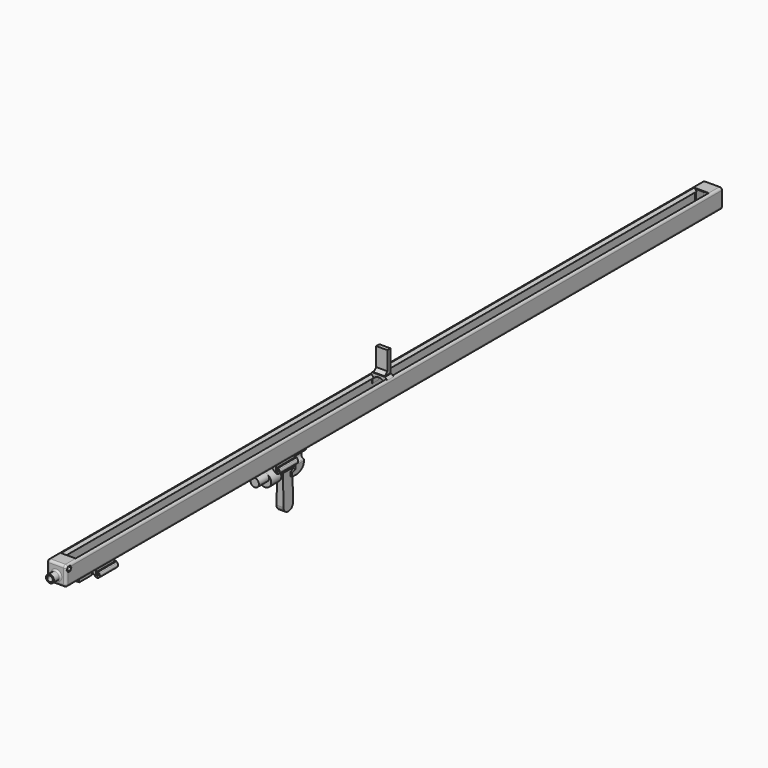
from build123d import *

# Parameters (mm, degrees)
PAD_DEPTH            = 10
CHAMFER_SIZE         = 3
SKETCH018_W          = 14.07752
SKETCH018_H          = 28.079826
PAD009_DEPTH         = 5
CHAMFER001_SIZE      = 4
PAD017_DEPTH         = 340
SKETCH028_W          = 255.75
SKETCH028_H          = 55.145052
SKETCH028_W_2        = 65.422654
SKETCH028_H_2        = 54.277497
POCKET004_DEPTH      = 13
PAD020_DEPTH         = 7.5
POCKET009_DEPTH      = 10
SKETCH032_W          = 18
SKETCH032_H          = 5
PAD021_DEPTH         = 20
SKETCH026_R          = 2.2
POCKET005_DEPTH      = 0.001
POCKET005_DEPTH_BACK = 495.001
SKETCH040_R          = 4.638047
POCKET010_DEPTH      = 20
FILLET003_R          = 1
FILLET004_R          = 9
PAD008_DEPTH         = 501
SKETCH019_R          = 2.2
PAD010_DEPTH         = 495
SKETCH020_W          = 13.9
SKETCH020_H          = 18.2
PAD011_DEPTH         = 15
PAD012_DEPTH         = 4
SKETCH022_R          = 4.5
POCKET_DEPTH         = 15
FILLET_R             = 3
SKETCH023_R          = 5
PAD016_DEPTH         = 10
SKETCH024_R          = 3.5
POCKET003_DEPTH      = 17
FILLET001_R          = 2
SKETCH033_R          = 4
PAD022_DEPTH         = 9.5
SKETCH034_R          = 1.6
POCKET006_DEPTH      = 12.201
POCKET006_DEPTH_BACK = 12.201
SKETCH035_R          = 3.05
POCKET007_DEPTH      = 7
POCKET008_DEPTH      = 7
CHAMFER003_SIZE      = 1.3
SKETCH029_R          = 8
PAD018_DEPTH         = 16
SKETCH030_R          = 5.25
PAD019_DEPTH         = 16
SKETCH037_R          = 5.55
PAD023_DEPTH         = 23
PAD024_DEPTH         = 15
FILLET002_R          = 7


with BuildPart() as stripplacer:
    # Sketch017 → Pad (new body)
    with BuildSketch(Plane.XZ):
        with BuildLine():
            ThreePointArc((6.682066, -3.2), (0, 0.3), (-6.682066, -3.2))
            Line((-6.682066, -3.2), (-8.05, -3.2))
            Line((-8.05, -3.2), (-8.05, -9.2))
            Line((-8.05, -9.2), (-11.05, -9.2))
            Line((-11.05, -9.2), (-11.05, 3.3))
            Line((-11.05, 3.3), (11.05, 3.3))
            Line((11.05, 3.3), (11.05, -9.2))
            Line((11.05, -9.2), (8.05, -9.2))
            Line((8.05, -9.2), (8.05, -3.2))
            Line((6.682066, -3.2), (8.05, -3.2))
        make_face()
    extrude(amount=PAD_DEPTH)

    # Chamfer
    chamfer_edges = [stripplacer.edges().sort_by_distance(p)[0] for p in [
        (11.05, -5, 3.3),
        (-11.05, -5, 3.3),
    ]]
    chamfer(chamfer_edges, length=CHAMFER_SIZE)

    # Sketch018 → Pad009 (join)
    with BuildSketch(Plane.XZ):
        with Locations((0, 16.761206)):
            Rectangle(SKETCH018_W, SKETCH018_H)
    extrude(amount=PAD009_DEPTH)

    # Chamfer001
    chamfer001_edges = [stripplacer.edges().sort_by_distance(p)[0] for p in [
        (0, -5, 3.3),
    ]]
    chamfer(chamfer001_edges, length=CHAMFER001_SIZE)


with BuildPart() as scratch:
    # Sketch027 → Pad017 (new body)
    with BuildSketch(Plane.XZ.offset(150.85)):
        with BuildLine():
            Line((0, -30), (4.242641, -34.242641))
            Line((4.242641, -34.242641), (5.432671, -35.155783))
            ThreePointArc((5.432671, -35.155783), (9.99478, -34.771029), (10.037752, -30.192925))
            Line((8.8, -28.807746), (10.037752, -30.192925))
            Line((7.6, -28.807746), (8.8, -28.807746))
            Line((7.6, -31.262555), (7.6, -28.807746))
            ThreePointArc((6.3, -32.458381), (8.312404, -33.341558), (7.6, -31.262555))
            Line((6.3, -32.458381), (6.3, -26.458381))
            Line((6.3, -26.458381), (9, -23.2))
            Line((9, -23.2), (-9, -23.2))
            Line((-6.3, -26.458381), (-9, -23.2))
            Line((-6.250043, -32.447956), (-6.3, -26.458381))
            ThreePointArc((-7.859996, -31.261342), (-8.241634, -33.464602), (-6.250043, -32.447956))
            Line((-7.859996, -31.261342), (-8.147993, -30.303711))
            Line((-8.147993, -30.303711), (-9.39462, -29.63354))
            ThreePointArc((-9.39462, -29.63354), (-10.265009, -34.440381), (-5.432671, -35.155783))
            Line((-5.432671, -35.155783), (-4.242641, -34.242641))
            Line((0, -30), (-4.242641, -34.242641))
        make_face()
    extrude(amount=PAD017_DEPTH)

    # Sketch028 → Pocket004 (cut, symmetric)
    with BuildSketch(Plane.YZ):
        with Locations((-307.985, -51.022526)):
            Rectangle(SKETCH028_W, SKETCH028_H)
        with Locations((-497.571327, -50.588749)):
            Rectangle(SKETCH028_W_2, SKETCH028_H_2)
    extrude(amount=POCKET004_DEPTH, both=True, mode=Mode.SUBTRACT)

    # Sketch031 → Pad020 (join, symmetric)
    with BuildSketch(Plane.YZ):
        Polygon((-156.253647, -44.266901), (-150.85, -42.402939), (-150.85, -23.2), (-133.706074, -23.2), (-138.925842, -45.648563), (-147.958359, -48.869244), (-156.253647, -48.869244), align=None)
    extrude(amount=PAD020_DEPTH, both=True)

    # Sketch039 → Pocket009 (cut)
    with BuildSketch(Plane.XY.offset(-41)):
        Polygon((4.65, -150.85), (-4.65, -150.85), (-5.297581, -156.296677), (5.297581, -156.296677), align=None)
    extrude(amount=-POCKET009_DEPTH, mode=Mode.SUBTRACT)

    # Sketch032 → Pad021 (join)
    with BuildSketch(Plane.XZ.offset(475)):
        with Locations((0, -25.7)):
            Rectangle(SKETCH032_W, SKETCH032_H)
    extrude(amount=PAD021_DEPTH)

    # Sketch026 → Pocket005 (cut, two sides)
    with BuildSketch(Plane.XZ) as pocket005_sk:
        with Locations((0, -26.65)):
            Circle(SKETCH026_R)
    extrude(amount=-POCKET005_DEPTH, mode=Mode.SUBTRACT)
    extrude(pocket005_sk.sketch, amount=POCKET005_DEPTH_BACK, mode=Mode.SUBTRACT)

    # Sketch040 (on Face39 of Pocket009) → Pocket010 (cut)
    with BuildSketch(Plane(origin=(0, -150.85, 0), x_dir=(1, 0, 0), z_dir=(0, 1, 0))):
        with Locations((-7.50246, 32.458381)):
            Circle(SKETCH040_R)
        with Locations((7.50246, 32.458381)):
            Circle(SKETCH040_R)
    extrude(amount=POCKET010_DEPTH, mode=Mode.SUBTRACT)

    # Fillet003
    fillet003_edges = [scratch.edges().sort_by_distance(p)[0] for p in [
        (7.5, -143.893644, -37.096428),
        (7.5, -142.8152, -27.820335),
        (-7.5, -143.893644, -37.096428),
        (-7.5, -142.8152, -27.820335),
    ]]
    fillet(fillet003_edges, radius=FILLET003_R)

    # Fillet004
    fillet004_edges = [scratch.edges().sort_by_distance(p)[0] for p in [
        (0, -138.925842, -45.648563),
    ]]
    fillet(fillet004_edges, radius=FILLET004_R)


with BuildPart() as obj1:
    # Sketch016 → Pad008 (new body)
    with BuildSketch(Plane.XZ):
        with BuildLine():
            ThreePointArc((-9.2, 0.95), (-11.32132, 0.07132), (-12.2, -2.05))
            Line((-12.2, -20.45), (-12.2, -2.05))
            ThreePointArc((-12.2, -20.45), (-11.32132, -22.57132), (-9.2, -23.45))
            Line((9.2, -23.45), (-9.2, -23.45))
            ThreePointArc((9.2, -23.45), (11.32132, -22.57132), (12.2, -20.45))
            Line((12.2, -2.05), (12.2, -20.45))
            ThreePointArc((12.2, -2.05), (11.32132, 0.07132), (9.2, 0.95))
            Line((6.11895, -2.292259), (9.2, 0.95))
            Line((6.916338, -3.05), (6.11895, -2.292259))
            Line((8.2, -3.05), (6.916338, -3.05))
            Line((8.2, -19.45), (8.2, -3.05))
            Line((-8.2, -19.45), (8.2, -19.45))
            Line((-8.2, -3.05), (-8.2, -19.45))
            Line((-8.2, -3.05), (-6.916338, -3.05))
            Line((-6.916338, -3.05), (-6.11895, -2.292259))
            Line((-9.2, 0.95), (-6.11895, -2.292259))
        make_face()
    extrude(amount=PAD008_DEPTH)

    # Sketch019 → Pad010 (join)
    with BuildSketch(Plane.XZ):
        with BuildLine():
            ThreePointArc((-3.15, -25.124385), (0, -30.15), (3.15, -25.124385))
            Line((3.15, -25.124385), (3.5, -23.45))
            Line((-3.5, -23.45), (3.5, -23.45))
            Line((-3.15, -25.124385), (-3.5, -23.45))
        make_face()
        with Locations((0, -26.65)):
            Circle(SKETCH019_R, mode=Mode.SUBTRACT)
    extrude(amount=PAD010_DEPTH)

    # Sketch020 → Pad011 (join)
    with BuildSketch(Plane.XZ.offset(501)):
        with BuildLine():
            ThreePointArc((-9.2, 0.95), (-11.32132, 0.07132), (-12.2, -2.05))
            Line((-12.2, -20.45), (-12.2, -2.05))
            ThreePointArc((-12.2, -20.45), (-11.32132, -22.57132), (-9.2, -23.45))
            Line((9.2, -23.45), (-9.2, -23.45))
            ThreePointArc((9.2, -23.45), (11.32132, -22.57132), (12.2, -20.45))
            Line((12.2, -2.05), (12.2, -20.45))
            ThreePointArc((12.2, -2.05), (11.32132, 0.07132), (9.2, 0.95))
            Line((-9.2, 0.95), (9.2, 0.95))
        make_face()
        with Locations((0, -9.1)):
            Rectangle(SKETCH020_W, SKETCH020_H, mode=Mode.SUBTRACT)
    extrude(amount=PAD011_DEPTH)

    # Sketch021 → Pad012 (join)
    with BuildSketch(Plane.XZ.offset(516)):
        with BuildLine():
            ThreePointArc((-9.2, 0.95), (-11.32132, 0.07132), (-12.2, -2.05))
            Line((-12.2, -20.45), (-12.2, -2.05))
            ThreePointArc((-12.2, -20.45), (-11.32132, -22.57132), (-9.2, -23.45))
            Line((9.2, -23.45), (-9.2, -23.45))
            ThreePointArc((9.2, -23.45), (11.32132, -22.57132), (12.2, -20.45))
            Line((12.2, -2.05), (12.2, -20.45))
            ThreePointArc((12.2, -2.05), (11.32132, 0.07132), (9.2, 0.95))
            Line((-9.2, 0.95), (9.2, 0.95))
        make_face()
    extrude(amount=PAD012_DEPTH)

    # Sketch022 → Pocket (cut)
    with BuildSketch(Plane.XZ.offset(495)):
        with Locations((0, -26.65)):
            Circle(SKETCH022_R)
    extrude(amount=POCKET_DEPTH, mode=Mode.SUBTRACT)

    # Fillet
    fillet_edges = [obj1.edges().sort_by_distance(p)[0] for p in [
        (-6.95, -516, -9.1),
        (0, -516, -18.2),
        (6.95, -516, -9.1),
        (0, -516, 0),
        (-11.32132, -520, 0.07132),
        (-12.2, -520, -11.25),
        (-11.32132, -520, -22.57132),
        (0, -520, -23.45),
        (11.32132, -520, -22.57132),
        (12.2, -520, -11.25),
        (11.32132, -520, 0.07132),
        (0, -520, 0.95),
    ]]
    fillet(fillet_edges, radius=FILLET_R)


with BuildPart() as obj2:
    # Part__Mirroring: instance of obj1
    add(obj1.part.mirror(Plane(origin=(0, 0, 0), x_dir=(1, 0, 0), z_dir=(0, 1, 0))))


with BuildPart() as body:
    # Fusion base: copy of obj1
    add(obj1.part)

    # Fusion: union obj2
    add(obj2.part)

    # Sketch023 → Pad016 (new body)
    with BuildSketch(Plane.XZ.offset(520)):
        with Locations((0, -13)):
            Circle(SKETCH023_R)
    extrude(amount=PAD016_DEPTH)

    # Sketch024 → Pocket003 (cut)
    with BuildSketch(Plane.XZ.offset(530)):
        with Locations((0, -13)):
            Circle(SKETCH024_R)
    extrude(amount=-POCKET003_DEPTH, mode=Mode.SUBTRACT)

    # Fillet001
    fillet001_edges = [body.edges().sort_by_distance(p)[0] for p in [
        (-5, -520, -13),
    ]]
    fillet(fillet001_edges, radius=FILLET001_R)

    # Sketch033 → Pad022 (join, symmetric)
    with BuildSketch(Plane.YZ):
        with Locations((-515, -4.05)):
            Circle(SKETCH033_R)
    extrude(amount=PAD022_DEPTH, both=True)

    # Sketch034 → Pocket006 (cut, two sides)
    with BuildSketch(Plane.YZ) as pocket006_sk:
        with Locations((-515, -4.05)):
            Circle(SKETCH034_R)
    extrude(amount=-POCKET006_DEPTH, mode=Mode.SUBTRACT)
    extrude(pocket006_sk.sketch, amount=POCKET006_DEPTH_BACK, mode=Mode.SUBTRACT)

    # Sketch035 (on Face9 of Pocket006) → Pocket007 (cut)
    with BuildSketch(Plane(origin=(-12.2, 0, 0), x_dir=(0, -1, 0), z_dir=(-1, 0, 0))):
        with Locations((515, -4.05)):
            Circle(SKETCH035_R)
    extrude(amount=-POCKET007_DEPTH, mode=Mode.SUBTRACT)

    # Sketch036 (on Face16 of Pocket007) → Pocket008 (cut)
    with BuildSketch(Plane.YZ.offset(12.2)):
        Polygon((-511.478163, -4.05), (-513.239082, -1), (-516.760918, -1), (-518.521837, -4.05), (-516.760918, -7.1), (-513.239082, -7.1), align=None)
    extrude(amount=-POCKET008_DEPTH, mode=Mode.SUBTRACT)

    # Chamfer003
    chamfer003_edges = [body.edges().sort_by_distance(p)[0] for p in [
        (-5.2, -511.95, -4.05),
    ]]
    chamfer(chamfer003_edges, length=CHAMFER003_SIZE)

    # Fusion001: union Scratch
    add(scratch.part)


with BuildPart() as rods:
    # Sketch029 → Pad018 (new body)
    with BuildSketch(Plane.XZ.offset(174)):
        with Locations((0, -41.13113)):
            Circle(SKETCH029_R)
    extrude(amount=PAD018_DEPTH)

    # Sketch030 (on Face3 of Pad018) → Pad019 (join)
    with BuildSketch(Plane.XZ.offset(190)):
        with Locations((0, -37.436907)):
            Circle(SKETCH030_R)
    extrude(amount=PAD019_DEPTH)

    # Sketch037 → Pad023 (join)
    with BuildSketch(Plane.XZ.offset(151)):
        with Locations((0, -37.92)):
            Circle(SKETCH037_R)
    extrude(amount=PAD023_DEPTH)

    # Sketch038 → Pad024 (join)
    with BuildSketch(Plane.XZ.offset(151)):
        Polygon((-3.75, -41.111142), (3.75, -41.111142), (4.5, -87.186907), (-4.5, -87.186907), align=None)
    extrude(amount=PAD024_DEPTH)

    # Fillet002
    fillet002_edges = [rods.edges().sort_by_distance(p)[0] for p in [
        (0, -151, -87.186907),
        (0, -166, -87.186907),
    ]]
    fillet(fillet002_edges, radius=FILLET002_R)


solid = Compound([stripplacer.part, body.part, rods.part])
